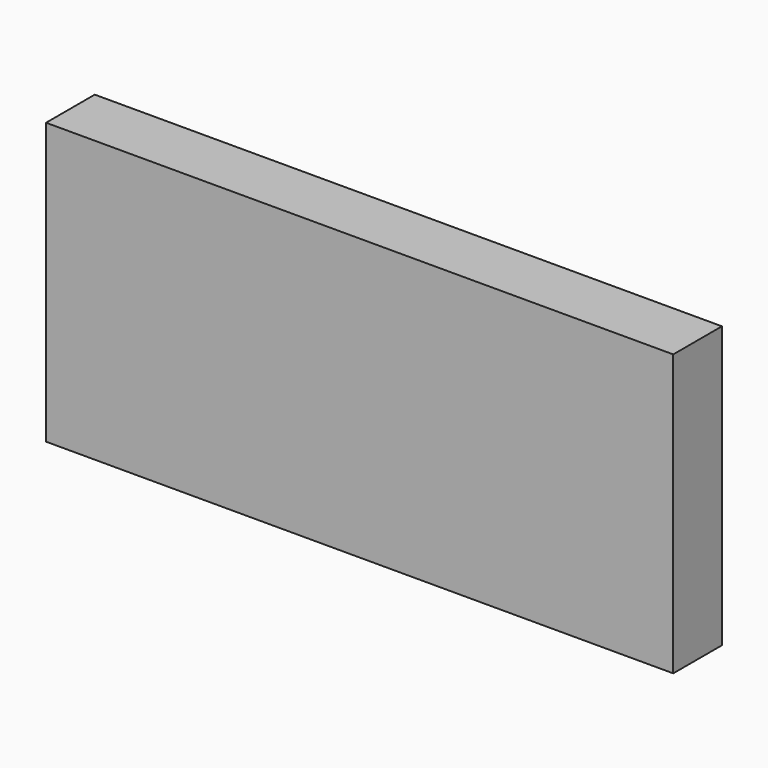
from build123d import *

# Parameters (mm, degrees)
SKETCH_W  = 134
SKETCH_H  = 60
PAD_DEPTH = 13


with BuildPart() as part:
    # Sketch → Pad (new body)
    with BuildSketch(Plane.XZ):
        with Locations((67, 30)):
            Rectangle(SKETCH_W, SKETCH_H)
    extrude(amount=-PAD_DEPTH)


solid = part.part
